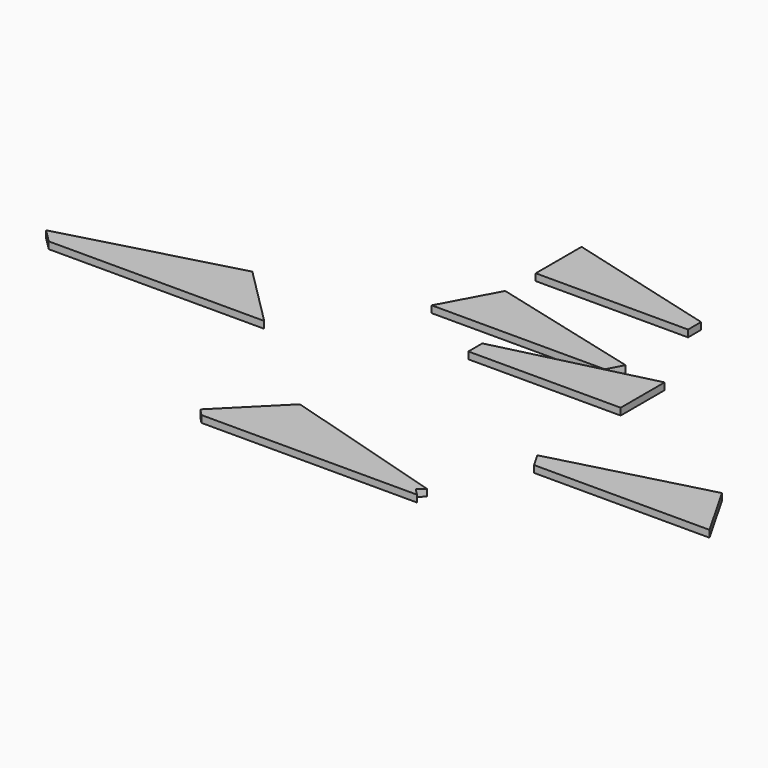
from build123d import *

# Parameters (mm, degrees)
F1_DEPTH  = 40
F3_DEPTH  = 25
F4_DEPTH  = 40
F6_DEPTH  = 40
F8_DEPTH  = 40
F10_DEPTH = 40
F12_DEPTH = 40


with BuildPart() as f1:
    # F0 (on Top) → F1 (new body)
    with BuildSketch(Plane.XY):
        Polygon((357.966052, 1.853428), (-522.033948, -214.146572), (-522.033948, -315.146572), (357.966052, -315.146572), align=None)
    extrude(amount=F1_DEPTH)


with BuildPart() as f3:
    # F2 (on Top) → F3 (new body)
    with BuildSketch(Plane.XY):
        Polygon((-761.606879, 250.493593), (-932.606879, -66.506407), (67.393121, -66.506407), (115.393121, 23.493593), align=None)
    extrude(amount=F3_DEPTH)

    # F2 (on Top) → F4 (join)
    with BuildSketch(Plane.XY):
        Polygon((-761.606879, 250.493593), (-932.606879, -66.506407), (67.393121, -66.506407), (115.393121, 23.493593), align=None)
    extrude(amount=F4_DEPTH)


with BuildPart() as f6:
    # F5 (on Top) → F6 (new body)
    with BuildSketch(Plane.XY):
        Polygon((171.004112, -1479.629545), (-792.995888, -1192.629545), (-1112.995888, -1512.629545), (-1073.995888, -1552.629545), (171.004112, -1552.629545), (132.004112, -1512.629545), align=None)
    extrude(amount=F6_DEPTH)


with BuildPart() as f8:
    # F7 (on Top) → F8 (new body)
    with BuildSketch(Plane.XY):
        Polygon((-1770.361581, -314.740785), (-2749.361581, -580.740785), (-2672.361581, -657.740785), (-1427.361581, -657.740785), align=None)
    extrude(amount=F8_DEPTH)


with BuildPart() as f10:
    # F9 (on Top) → F10 (new body)
    with BuildSketch(Plane.XY):
        Polygon((1235.453922, -680.750228), (354.453922, -912.750228), (402.453922, -996.750228), (1416.453922, -996.750228), align=None)
    extrude(amount=F10_DEPTH)


with BuildPart() as f12:
    # F11 (on Top) → F12 (new body)
    with BuildSketch(Plane.XY):
        Polygon((118.121295, 565.279308), (-761.878705, 802.279308), (-761.878705, 471.279308), (118.121295, 471.279308), align=None)
    extrude(amount=F12_DEPTH)


solid = Compound([f1.part, f3.part, f6.part, f8.part, f10.part, f12.part])
